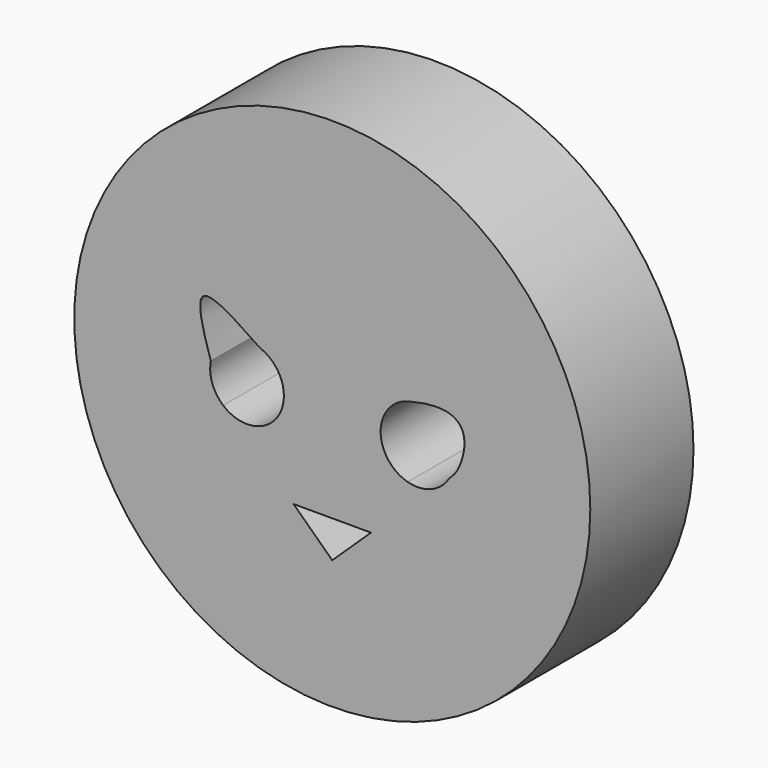
from build123d import *

# Parameters (mm, degrees)
F0_R     = 50.8
F1_DEPTH = 25.4


with BuildPart() as f1:
    # F0 (on Front) → F1 (new body)
    with BuildSketch(Plane.XZ):
        Circle(F0_R)
        Polygon((0, -25.4), (-7.6217073622, -18.1220550468), (7.6217073622, -18.1220550468), align=None, mode=Mode.SUBTRACT)
        with BuildLine():
            ThreePointArc((-14.2554945443, 6.803100084), (-10.8238557625, 4.1430589359), (-9.525, 0))
            ThreePointArc((-9.525, 0), (-13.7319278898, -6.5850065377), (-21.475243217, -5.5354251383))
            ThreePointArc((-21.475243217, -5.5354251383), (-23.6314387915, -2.3985970176), (-23.9033384682, 1.3981042586))
            add(Edge.make_bspline(
                [(-14.2554945443, 6.803100084), (-19.0561525649, 10.0658788244), (-27.9600989694, 16.1266078405), (-25.6616575186, 6.7049880874), (-23.9033384682, 1.3981042586)],
                knots=[0, 0, 0, 0, 0.4524785293, 0.8394989496, 0.8394989496, 0.8394989496, 0.8394989496], degree=3))
        make_face(mode=Mode.SUBTRACT)
        with BuildLine():
            ThreePointArc((14.839976255, -6.9924324336), (9.525236299, 0.0585632534), (14.9530797492, 7.0228662664))
            add(Edge.make_bspline(
                [(14.9530797492, 7.0228662664), (27.0596550391, 10.175950689), (26.5589054798, 1.2219851028), (24.153074938, -2.7644417195), (23.0182577745, -3.7117372195)],
                knots=[0, 0, 0, 0, 0.4992357934, 0.7063104799, 0.7063104799, 0.7063104799, 0.7063104799], degree=3))
            ThreePointArc((23.0182577745, -3.7117372195), (19.4840381744, -6.7354201163), (14.839976255, -6.9924324336))
        make_face(mode=Mode.SUBTRACT)
    extrude(amount=F1_DEPTH)


solid = f1.part
